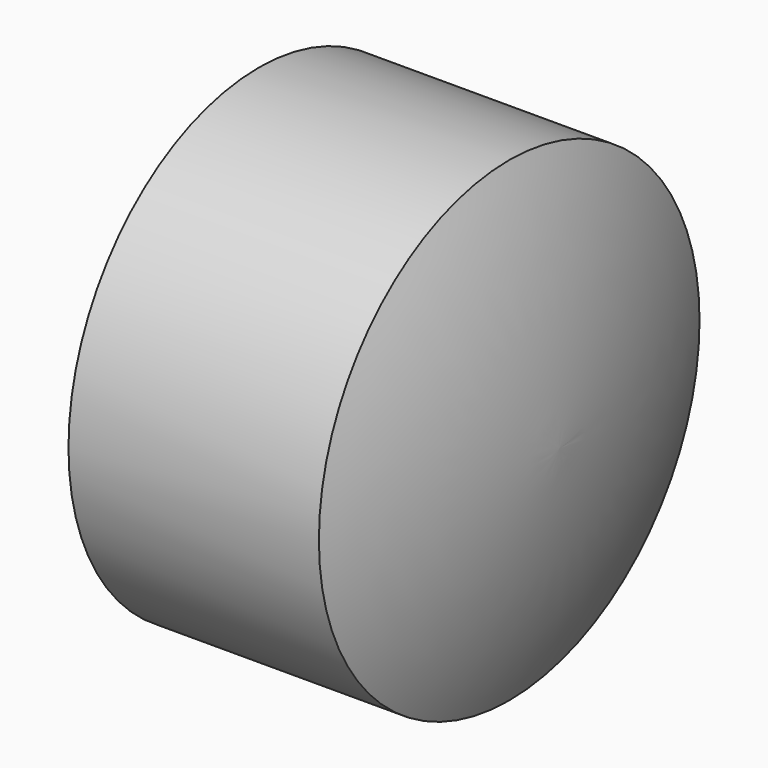
from build123d import *

# Parameters (mm, degrees)
F0_W = 15
F0_H = 3


with BuildPart() as f1:
    # F0 (on Top) → F1 (revolve)
    with BuildSketch(Plane.XY):
        with Locations((7.5, 12.75)):
            Rectangle(F0_W, F0_H)
        with BuildLine():
            Line((15, 14.25), (15, 11.25))
            ThreePointArc((15, 11.25), (16.134725, 5.675109), (16.534912, 0))
            Line((16.534912, 0), (18, 0))
            ThreePointArc((18, 0), (17.16839, 7.265714), (15, 14.25))
        make_face()
    revolve(axis=Axis((12.172936, 0, 0), (1, 0, 0)))


solid = f1.part
